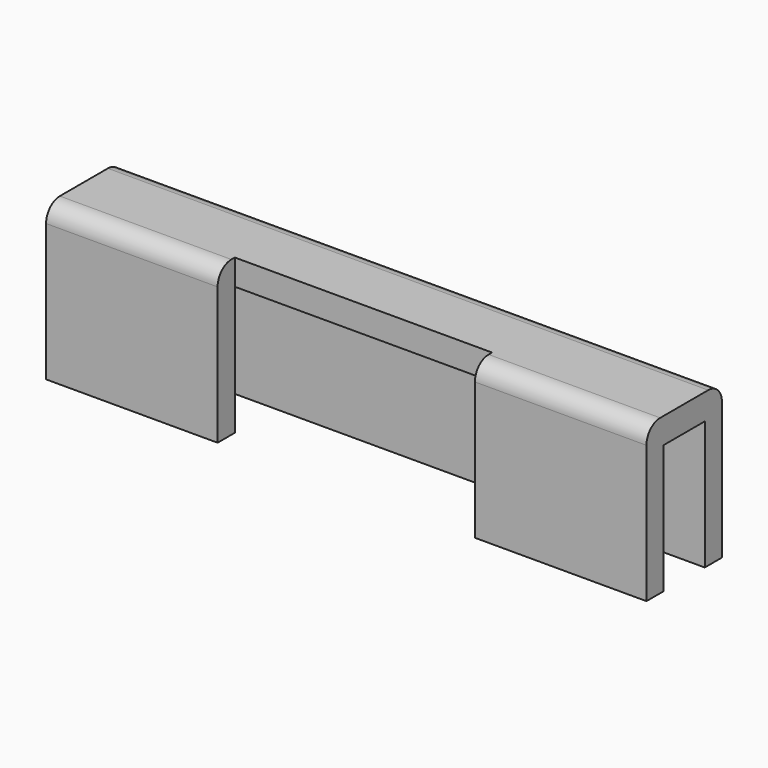
from build123d import *

# Parameters (mm, degrees)
F1_DEPTH = 3
F0_W     = 20
F0_H     = 2.5
F0_W_2   = 70
F2_DEPTH = 3
F3_DEPTH = 15
F4_R     = 2


with BuildPart() as f1:
    # F0 (on Top) → F1 (new body)
    with BuildSketch(Plane.XY):
        Polygon((-24.26379, -16.103005), (-24.26379, -22.103005), (-4.26379, -22.103005), (25.73621, -22.103005), (45.73621, -22.103005), (45.73621, -16.103005), align=None)
    extrude(amount=F1_DEPTH)

    # F0 (on Top) → F2 (join)
    with BuildSketch(Plane.XY):
        with Locations((-14.26379, -23.353005)):
            Rectangle(F0_W, F0_H)
        with Locations((35.73621, -23.353005)):
            Rectangle(F0_W, F0_H)
        with Locations((10.73621, -14.853005)):
            Rectangle(F0_W_2, F0_H)
    extrude(amount=F2_DEPTH)

    # F0 (on Top) → F3 (join)
    with BuildSketch(Plane.XY):
        with Locations((10.73621, -14.853005)):
            Rectangle(F0_W_2, F0_H)
        with Locations((-14.26379, -23.353005)):
            Rectangle(F0_W, F0_H)
        with Locations((35.73621, -23.353005)):
            Rectangle(F0_W, F0_H)
    extrude(amount=-F3_DEPTH)

    # F4
    f4_edges = [f1.edges().sort_by_distance(p)[0] for p in [
        (10.73621, -13.603005, 3),
        (-14.26379, -24.603005, 3),
        (35.73621, -24.603005, 3),
    ]]
    fillet(f4_edges, radius=F4_R)


solid = f1.part
